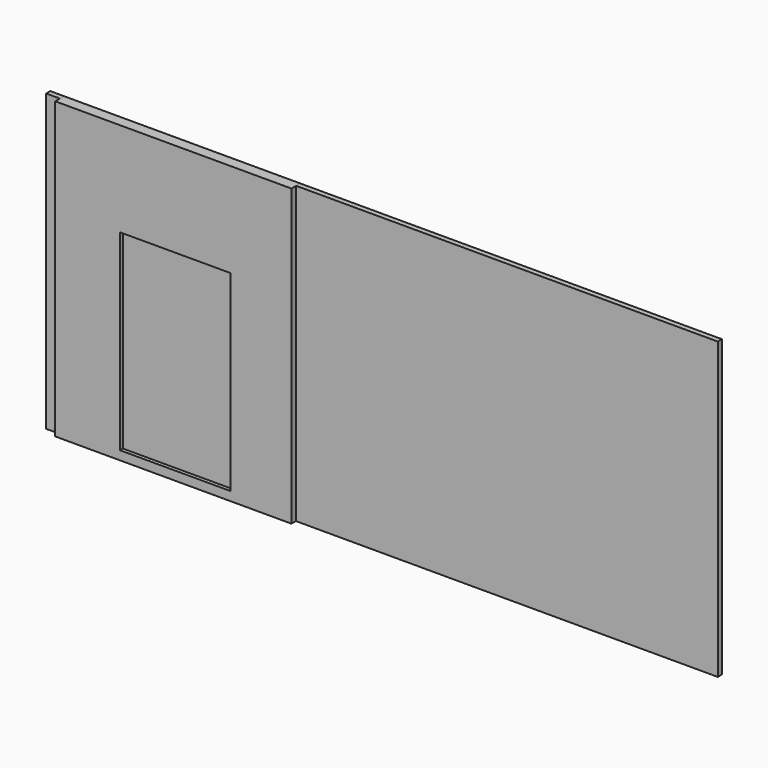
from build123d import *

# Parameters (mm, degrees)
F1_DEPTH = 70
F0_W     = 3200
F0_H     = 3997.292371
F0_W_2   = 1500
F0_H_2   = 2600
F2_DEPTH = 150
F3_DEPTH = 100
F4_W     = 1425.566227
F4_H     = 2523.555457
F4_W_2   = 788.61104
F4_H_2   = 2353.700698
F5_DEPTH = 50


with BuildPart() as f1:
    # F0 (on Front) → F1 (new body)
    with BuildSketch(Plane.XZ):
        Polygon((-2189.442599, 3154.79085), (-2377.104102, 3154.79085), (-2377.104102, -845.20915), (6722.895898, -845.20915), (6722.895898, 3154.79085), (1010.557401, 3154.79085), (1010.557401, -842.501521), (-2189.442599, -842.501521), align=None)
    extrude(amount=F1_DEPTH)


with BuildPart() as f2:
    # F0 (on Front) → F2 (new body)
    with BuildSketch(Plane.XZ):
        with Locations((-589.442599, 1156.144665)):
            Rectangle(F0_W, F0_H)
        with Locations((-563.738128, 578.109205)):
            Rectangle(F0_W_2, F0_H_2, mode=Mode.SUBTRACT)
    extrude(amount=F2_DEPTH)


with BuildPart() as f3:
    # F0 (on Front) → F3 (new body)
    with BuildSketch(Plane.XZ):
        with Locations((-563.738128, 578.109205)):
            Rectangle(F0_W_2, F0_H_2)
    extrude(amount=F3_DEPTH)


with BuildPart() as f5:
    # F4 (on Front) → F5 (new body)
    with BuildSketch(Plane.XZ):
        with Locations((-568.752632, 584.810168)):
            Rectangle(F4_W, F4_H)
        Polygon((-1245.261669, 806.599259), (-1245.261669, 1802.586555), (-982.094228, 1802.586555), (-982.094228, 806.599259), (-982.094228, 478.652209), (-982.094228, -622.602105), (-1245.261669, -622.602105), (-1245.261669, 478.652209), align=None, mode=Mode.SUBTRACT)
        with Locations((-547.520764, 621.207565)):
            Rectangle(F4_W_2, F4_H_2, mode=Mode.SUBTRACT)
        Polygon((-111.617535, 1798.057914), (107.013837, 1798.057914), (107.013837, 851.135254), (107.013837, 470.554739), (107.013837, -618.55334), (-111.617535, -618.55334), (-111.617535, 470.554739), (-111.617535, 851.135254), align=None, mode=Mode.SUBTRACT)
    extrude(amount=F5_DEPTH)


solid = Compound([f1.part, f2.part, f3.part, f5.part])
